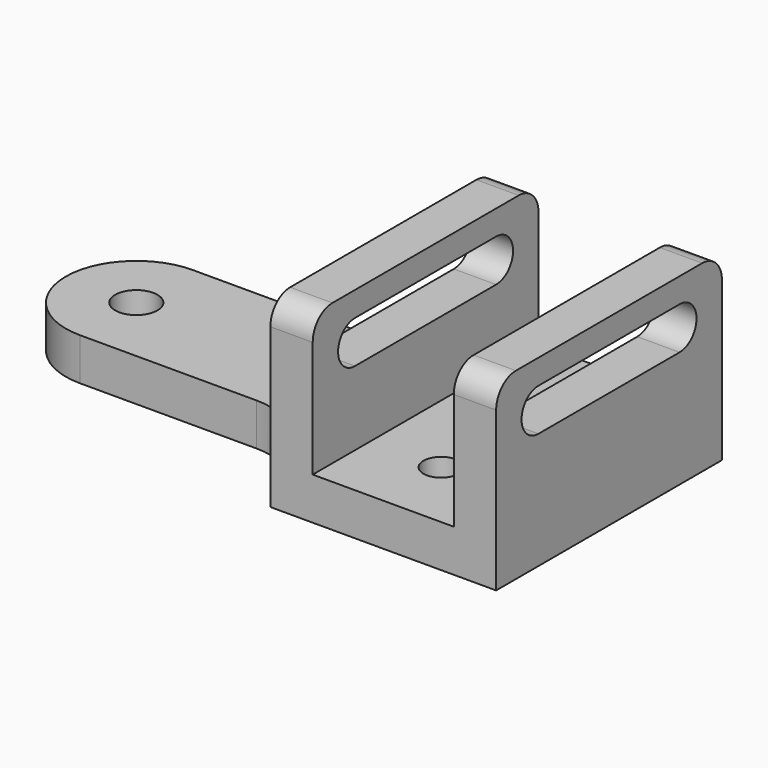
from build123d import *

# Parameters (mm, degrees)
PAD_DEPTH            = 12
SKETCH001_R          = 6
POCKET_DEPTH         = 12.001
PAD001_DEPTH         = 64
SKETCH003_W          = 40
SKETCH003_H          = 40
POCKET001_DEPTH      = 40.001
POCKET001_DEPTH_BACK = -40.001
POCKET002_DEPTH      = 64.001
SKETCH005_R          = 5
POCKET003_DEPTH      = 12.001


with BuildPart() as part:
    # Sketch → Pad (new body)
    with BuildSketch(Plane.XY):
        with BuildLine():
            Line((0, 40), (64, 40))
            Line((64, 40), (64, -40))
            Line((64, -40), (0, -40))
            ThreePointArc((0, -40), (-5.857864, -25.857864), (-20, -20))
            Line((-70, -20), (-20, -20))
            ThreePointArc((-70, 20), (-90, 0), (-70, -20))
            Line((-70, 20), (-19.999939, 20))
            ThreePointArc((-19.999939, 20), (-5.857843, 25.857886), (0, 40))
        make_face()
    extrude(amount=PAD_DEPTH)

    # Sketch001 (on DatumPlane) → Pocket (cut, through all)
    with BuildSketch(Plane.XY.offset(12)):
        with Locations((-70, 0)):
            Circle(SKETCH001_R)
    extrude(amount=-POCKET_DEPTH, mode=Mode.SUBTRACT)

    # Sketch002 → Pad001 (join)
    with BuildSketch(Plane.YZ):
        with BuildLine():
            Line((-40, 0), (40, 0))
            Line((40, 0), (40, 44.999965))
            ThreePointArc((40, 44.999965), (37.949747, 49.949747), (32.999965, 52))
            Line((32.999965, 52), (-33, 52))
            ThreePointArc((-33, 52), (-37.949747, 49.949748), (-40, 45))
            Line((-40, 45), (-40, 0))
        make_face()
    extrude(amount=PAD001_DEPTH)

    # Sketch003 → Pocket001 (cut, two sides)
    with BuildSketch(Plane.XZ) as pocket001_sk:
        with Locations((32, 32)):
            Rectangle(SKETCH003_W, SKETCH003_H)
    extrude(amount=-POCKET001_DEPTH, mode=Mode.SUBTRACT)
    extrude(pocket001_sk.sketch, amount=-POCKET001_DEPTH_BACK, mode=Mode.SUBTRACT)

    # Sketch004 → Pocket002 (cut, through all)
    with BuildSketch(Plane.YZ):
        with BuildLine():
            ThreePointArc((-25, 45), (-31, 39), (-25, 33))
            Line((-25, 33), (25, 33))
            ThreePointArc((25, 33), (31, 39), (25, 45))
            Line((-25, 45), (25, 45))
        make_face()
    extrude(amount=POCKET002_DEPTH, mode=Mode.SUBTRACT)

    # Sketch005 (on DatumPlane) → Pocket003 (cut, through all)
    with BuildSketch(Plane.XY.offset(12)):
        with Locations((32, 19.5)):
            Circle(SKETCH005_R)
        with Locations((32, -19.5)):
            Circle(SKETCH005_R)
    extrude(amount=-POCKET003_DEPTH, mode=Mode.SUBTRACT)


solid = part.part
